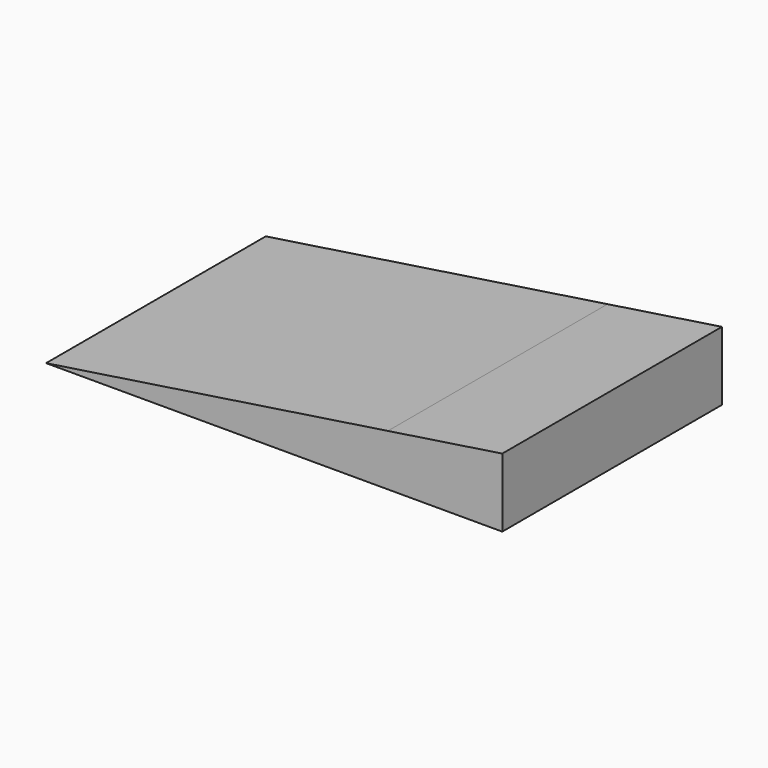
from build123d import *

# Parameters (mm, degrees)
F1_DEPTH = 609.6


with BuildPart() as f1:
    # F0 (on Front) → F1 (new body)
    with BuildSketch(Plane.XZ):
        Polygon((758.825, 114.3), (0, 0), (758.825, 0), align=None)
        Polygon((758.825, 114.3), (758.825, 0), (1012.825, 0), (1012.825, 152.559414), align=None)
    extrude(amount=F1_DEPTH)


solid = f1.part
